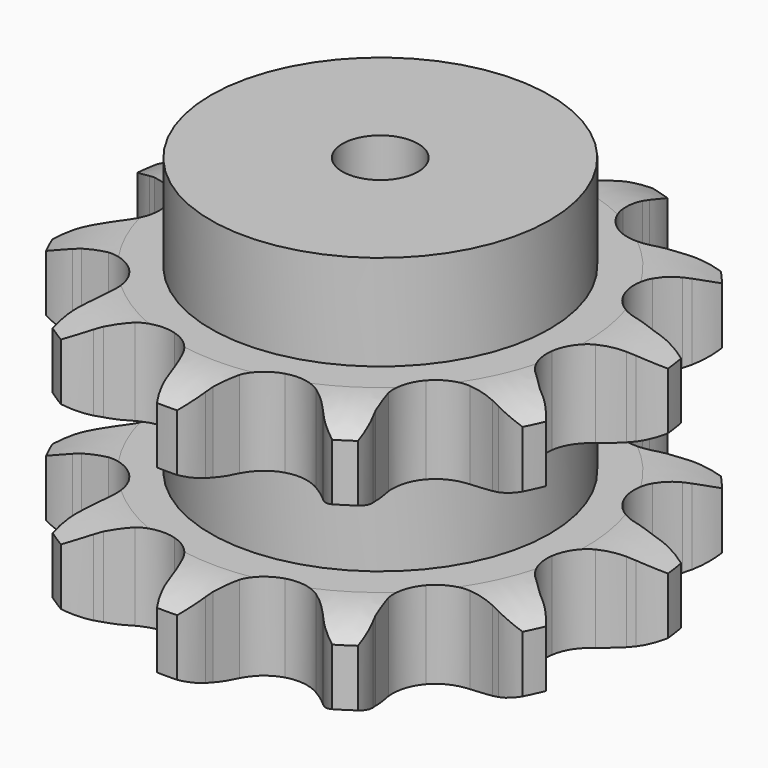
from build123d import *

# Parameters (mm, degrees)
PAD_DEPTH         = 88.4
SKETCH001_R       = 56
PAD001_DEPTH      = 120
SKETCH002_R       = 12.5
POCKET_DEPTH      = 0.001
POCKET_DEPTH_BACK = 120.001


with BuildPart() as part:
    # Sprocket → Pad (new body)
    with BuildSketch(Plane.XY):
        with BuildLine():
            ThreePointArc((-26.02075, 88.618537), (-20.537461, 84.429885), (-16.490953, 78.840875))
            Line((-16.490953, 78.840875), (-15.2923, 76.542737))
            ThreePointArc((-15.2923, 76.542737), (-13.193692, 73.018476), (-10.712207, 69.75247))
            ThreePointArc((-10.712207, 69.75247), (-5.898942, 66.104416), (0, 64.808921))
            ThreePointArc((0, 64.808921), (5.898942, 66.104416), (10.712207, 69.75247))
            ThreePointArc((10.712207, 69.75247), (13.193692, 73.018476), (15.2923, 76.542737))
            Line((15.2923, 76.542737), (16.490953, 78.840875))
            ThreePointArc((16.490953, 78.840875), (20.537461, 84.429885), (26.02075, 88.618537))
            ThreePointArc((26.02075, 88.618537), (28.36903, 82.130329), (28.751522, 75.240847))
            Line((28.751522, 75.240847), (28.517426, 72.659489))
            ThreePointArc((28.517426, 72.659489), (28.377529, 68.5601), (28.69935, 64.470968))
            ThreePointArc((28.69935, 64.470968), (30.77624, 58.799782), (35.038348, 54.520734))
            ThreePointArc((35.038348, 54.520734), (40.701251, 52.421365), (46.722714, 52.888055))
            Line((46.722714, 52.888055), (54.246829, 56.124206))
            ThreePointArc((54.246829, 56.124206), (55.360814, 56.786868), (56.497668, 57.409482))
            ThreePointArc((56.497668, 57.409482), (62.923454, 59.923549), (69.800846, 60.482777))
            ThreePointArc((69.800846, 60.482777), (68.268555, 53.754973), (64.865593, 47.752382))
            Line((64.865593, 47.752382), (63.273071, 45.707367))
            ThreePointArc((63.273071, 45.707367), (60.939084, 42.334376), (58.999067, 38.720389))
            ThreePointArc((58.999067, 38.720389), (57.680183, 32.826633), (58.952269, 26.922599))
            ThreePointArc((58.952269, 26.922599), (62.581201, 22.094901), (67.89909, 19.232057))
            Line((67.89909, 19.232057), (75.978373, 17.886637))
            ThreePointArc((75.978373, 17.886637), (77.273779, 17.841838), (78.566772, 17.750984))
            ThreePointArc((78.566772, 17.750984), (85.331694, 16.39191), (91.419667, 13.144164))
            ThreePointArc((91.419667, 13.144164), (86.493296, 8.312794), (80.385296, 5.102873))
            Line((80.385296, 5.102873), (77.939963, 4.243479))
            ThreePointArc((77.939963, 4.243479), (74.152912, 2.667787), (70.566996, 0.676361))
            ThreePointArc((70.566996, 0.676361), (66.271075, -3.56874), (64.14926, -9.223271))
            ThreePointArc((64.14926, -9.223271), (64.592062, -15.246538), (67.517984, -20.529984))
            Line((67.517984, -20.529984), (73.587321, -26.029814))
            ThreePointArc((73.587321, -26.029814), (74.652866, -26.76785), (75.691481, -27.543325))
            ThreePointArc((75.691481, -27.543325), (80.647725, -32.344045), (84.013389, -38.367629))
            ThreePointArc((84.013389, -38.367629), (77.257026, -39.768639), (70.383235, -39.166762))
            Line((70.383235, -39.166762), (67.861467, -38.567683))
            ThreePointArc((67.861467, -38.567683), (63.823713, -37.845806), (59.730403, -37.582408))
            ThreePointArc((59.730403, -37.582408), (53.82137, -38.831064), (48.979315, -42.440818))
            ThreePointArc((48.979315, -42.440818), (46.095399, -47.747309), (45.700396, -53.7739))
            Line((45.700396, -53.7739), (47.832814, -61.681982))
            ThreePointArc((47.832814, -61.681982), (48.330195, -62.878935), (48.78468, -64.092824))
            ThreePointArc((48.78468, -64.092824), (50.358673, -70.810994), (49.933454, -77.697971))
            ThreePointArc((49.933454, -77.697971), (43.492197, -75.22381), (38.034995, -71.001227))
            Line((38.034995, -71.001227), (36.237435, -69.133879))
            ThreePointArc((36.237435, -69.133879), (33.230937, -66.343622), (29.929829, -63.909027))
            ThreePointArc((29.929829, -63.909027), (24.283759, -61.764799), (18.258783, -62.183705))
            ThreePointArc((18.258783, -62.183705), (12.963773, -65.088647), (9.373254, -69.944982))
            Line((9.373254, -69.944982), (6.891727, -77.750557))
            ThreePointArc((6.891727, -77.750557), (6.663028, -79.026402), (6.389088, -80.293304))
            ThreePointArc((6.389088, -80.293304), (4.081098, -86.795953), (0, -92.359756))
            ThreePointArc((0, -92.359756), (-4.081098, -86.795953), (-6.389088, -80.293304))
            Line((-6.389088, -80.293304), (-6.891727, -77.750557))
            ThreePointArc((-6.891727, -77.750557), (-7.912427, -73.777808), (-9.373254, -69.944982))
            ThreePointArc((-9.373254, -69.944982), (-12.963773, -65.088647), (-18.258783, -62.183705))
            ThreePointArc((-18.258783, -62.183705), (-24.283759, -61.764799), (-29.929829, -63.909027))
            Line((-29.929829, -63.909027), (-36.237435, -69.133879))
            ThreePointArc((-36.237435, -69.133879), (-37.119602, -70.083545), (-38.034995, -71.001227))
            ThreePointArc((-38.034995, -71.001227), (-43.492197, -75.22381), (-49.933454, -77.697971))
            ThreePointArc((-49.933454, -77.697971), (-50.358673, -70.810994), (-48.78468, -64.092824))
            Line((-48.78468, -64.092824), (-47.832814, -61.681982))
            ThreePointArc((-47.832814, -61.681982), (-46.543651, -57.78806), (-45.700396, -53.7739))
            ThreePointArc((-45.700396, -53.7739), (-46.095399, -47.747309), (-48.979315, -42.440818))
            ThreePointArc((-48.979315, -42.440818), (-53.82137, -38.831064), (-59.730403, -37.582408))
            Line((-59.730403, -37.582408), (-67.861467, -38.567683))
            ThreePointArc((-67.861467, -38.567683), (-69.117022, -38.889658), (-70.383235, -39.166762))
            ThreePointArc((-70.383235, -39.166762), (-77.257026, -39.768639), (-84.013389, -38.367629))
            ThreePointArc((-84.013389, -38.367629), (-80.647725, -32.344045), (-75.691481, -27.543325))
            Line((-75.691481, -27.543325), (-73.587321, -26.029814))
            ThreePointArc((-73.587321, -26.029814), (-70.397595, -23.451012), (-67.517984, -20.529984))
            ThreePointArc((-67.517984, -20.529984), (-64.592062, -15.246538), (-64.14926, -9.223271))
            ThreePointArc((-64.14926, -9.223271), (-66.271075, -3.56874), (-70.566996, 0.676361))
            Line((-70.566996, 0.676361), (-77.939963, 4.243479))
            ThreePointArc((-77.939963, 4.243479), (-79.170275, 4.651421), (-80.385296, 5.102873))
            ThreePointArc((-80.385296, 5.102873), (-86.493296, 8.312794), (-91.419667, 13.144164))
            ThreePointArc((-91.419667, 13.144164), (-85.331694, 16.39191), (-78.566772, 17.750984))
            Line((-78.566772, 17.750984), (-75.978373, 17.886637))
            ThreePointArc((-75.978373, 17.886637), (-71.9008, 18.331567), (-67.89909, 19.232057))
            ThreePointArc((-67.89909, 19.232057), (-62.581201, 22.094901), (-58.952269, 26.922599))
            ThreePointArc((-58.952269, 26.922599), (-57.680183, 32.826633), (-58.999067, 38.720389))
            Line((-58.999067, 38.720389), (-63.273071, 45.707367))
            ThreePointArc((-63.273071, 45.707367), (-64.087525, 46.715707), (-64.865593, 47.752382))
            ThreePointArc((-64.865593, 47.752382), (-68.268555, 53.754973), (-69.800846, 60.482777))
            ThreePointArc((-69.800846, 60.482777), (-62.923454, 59.923549), (-56.497668, 57.409482))
            Line((-56.497668, 57.409482), (-54.246829, 56.124206))
            ThreePointArc((-54.246829, 56.124206), (-50.576009, 54.294003), (-46.722714, 52.888055))
            ThreePointArc((-46.722714, 52.888055), (-40.701251, 52.421365), (-35.038348, 54.520734))
            ThreePointArc((-35.038348, 54.520734), (-30.77624, 58.799782), (-28.69935, 64.470968))
            Line((-28.69935, 64.470968), (-28.517426, 72.659489))
            ThreePointArc((-28.517426, 72.659489), (-28.657439, 73.948085), (-28.751522, 75.240847))
            ThreePointArc((-28.751522, 75.240847), (-28.36903, 82.130329), (-26.02075, 88.618537))
        make_face()
    extrude(amount=PAD_DEPTH)

    # Sketch → Groove (revolve, cut)
    with BuildSketch(Plane.XZ):
        with BuildLine():
            ThreePointArc((67.778451, 0), (78.26654, 1.268279), (88.15, 5))
            Line((88.15, 5), (88.15, 23.8))
            ThreePointArc((88.15, 23.8), (78.26654, 27.531721), (67.778451, 28.8))
            Line((56, 28.8), (67.778451, 28.8))
            Line((56, 59.6), (56, 28.8))
            Line((67.778451, 59.6), (56, 59.6))
            ThreePointArc((67.778451, 59.6), (78.26654, 60.868279), (88.15, 64.6))
            Line((88.15, 64.6), (88.15, 83.4))
            ThreePointArc((88.15, 83.4), (78.26654, 87.131721), (67.778451, 88.4))
            Line((67.778451, 88.4), (98.15, 88.4))
            Line((98.15, 88.4), (98.15, 0))
            Line((67.778451, 0), (98.15, 0))
        make_face()
    revolve(axis=Axis((0, 0, 0), (0, 0, 1)), mode=Mode.SUBTRACT)

    # Sketch001 → Pad001 (join)
    with BuildSketch(Plane.XY):
        Circle(SKETCH001_R)
    extrude(amount=PAD001_DEPTH)

    # Sketch002 → Pocket (cut, two sides)
    with BuildSketch(Plane.XY) as pocket_sk:
        Circle(SKETCH002_R)
    extrude(amount=-POCKET_DEPTH, mode=Mode.SUBTRACT)
    extrude(pocket_sk.sketch, amount=POCKET_DEPTH_BACK, mode=Mode.SUBTRACT)


solid = part.part
